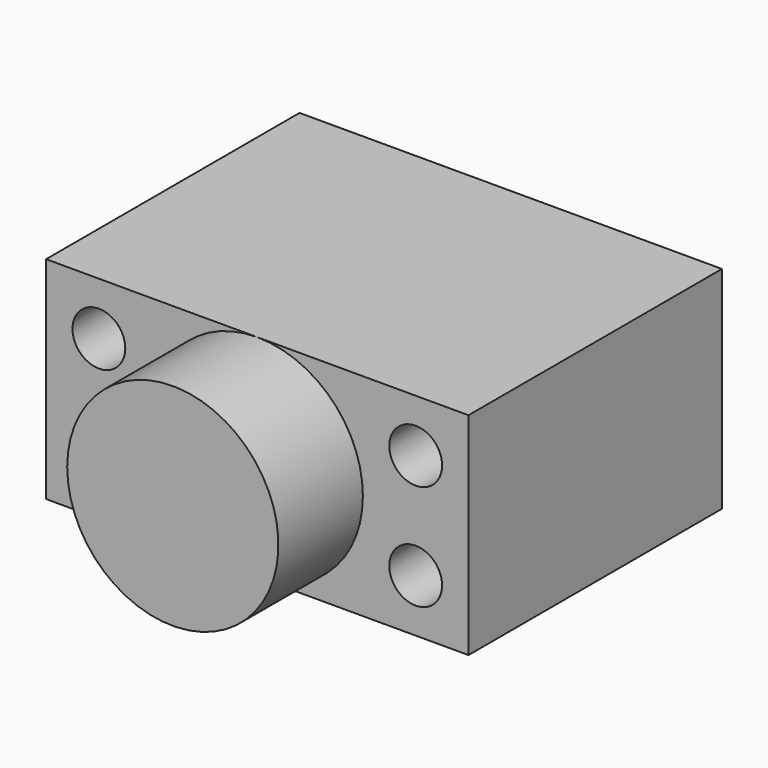
from build123d import *

# Parameters (mm, degrees)
F0_W     = 101.6
F0_H     = 50.8
F1_DEPTH = 76.2
F2_R     = 6.35
F3_DEPTH = 76.201
F4_W     = 25.4
F4_H     = 25.4


with BuildPart() as f1:
    # F0 (on Front) → F1 (new body)
    with BuildSketch(Plane.XZ):
        Rectangle(F0_W, F0_H)
    extrude(amount=F1_DEPTH)

    # F2 (on face) → F3 (cut, through all)
    with BuildSketch(Plane.XZ.offset(76.2)):
        with Locations((-38.1, 12.7)):
            Circle(F2_R)
        with Locations((-38.1, -12.7)):
            Circle(F2_R)
        with Locations((38.1, -12.7)):
            Circle(F2_R)
        with Locations((38.1, 12.7)):
            Circle(F2_R)
    extrude(amount=-F3_DEPTH, mode=Mode.SUBTRACT)

    # F4 (on Top) → F5 (revolve)
    with BuildSketch(Plane.XY):
        with Locations((-12.7, -88.9)):
            Rectangle(F4_W, F4_H)
    revolve(axis=Axis((0, -54.245796, 0), (0, -1, 0)))


solid = f1.part
